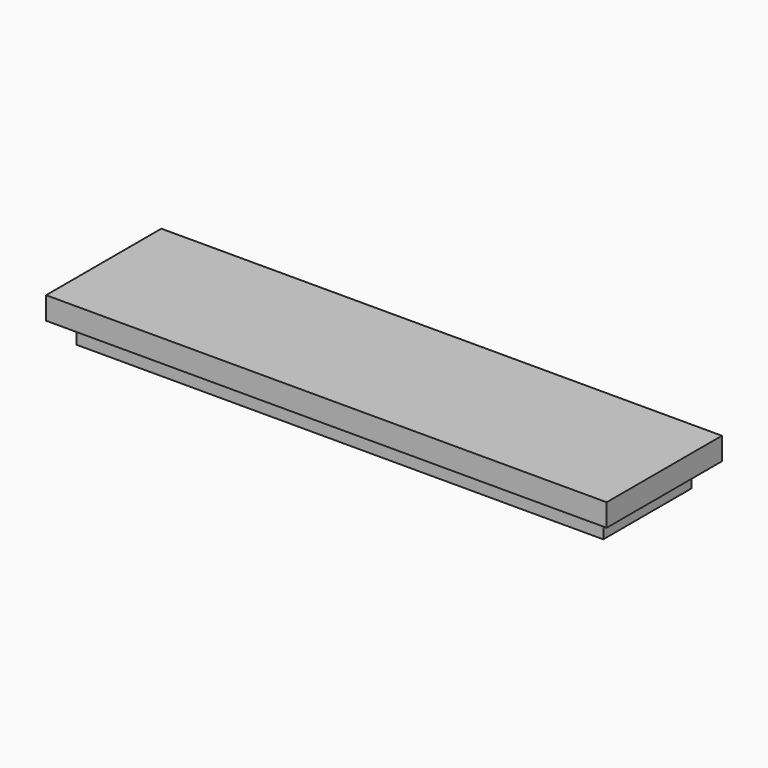
from build123d import *

# Parameters (mm, degrees)
F0_W     = 118.872
F0_H     = 24.892
F1_DEPTH = 5.08
F2_W     = 126.492
F2_H     = 32.512
F2_W_2   = 118.872
F2_H_2   = 24.892
F3_DEPTH = 5.08


with BuildPart() as f1:
    # F0 (on Top) → F1 (new body)
    with BuildSketch(Plane.XY):
        with Locations((59.436, 12.446)):
            Rectangle(F0_W, F0_H)
    extrude(amount=F1_DEPTH)

    # F2 (on face) → F3 (join)
    with BuildSketch(Plane.XY.offset(5.08)):
        with Locations((59.436, 12.446)):
            Rectangle(F2_W, F2_H)
        with Locations((59.436, 12.446)):
            Rectangle(F2_W_2, F2_H_2, mode=Mode.SUBTRACT)
        with Locations((59.436, 12.446)):
            Rectangle(F2_W_2, F2_H_2)
    extrude(amount=F3_DEPTH)


solid = f1.part
